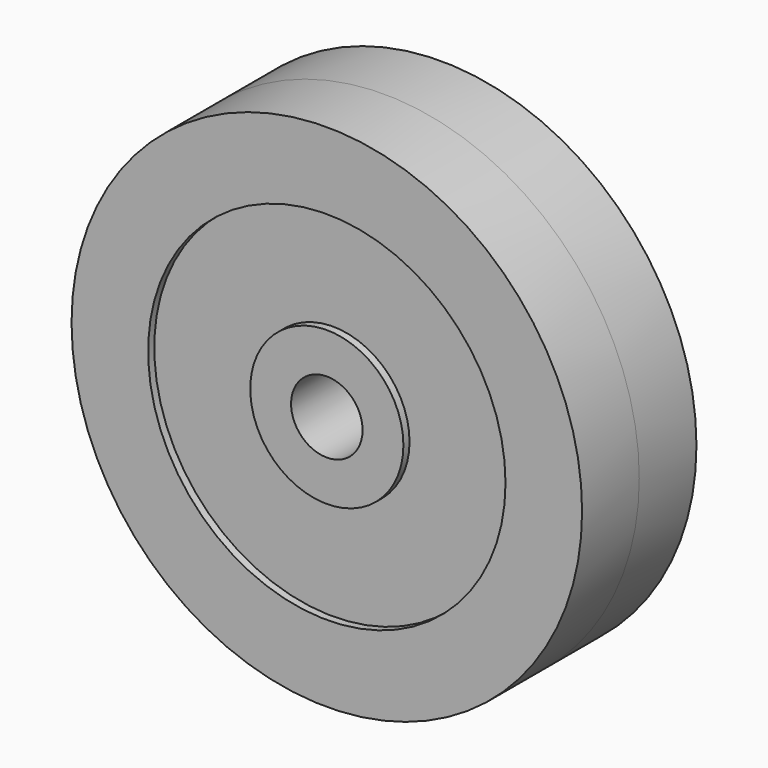
from build123d import *

# Parameters (mm, degrees)
F0_R     = 50
F0_R_2   = 35
F0_R_3   = 15
F0_R_4   = 7
F1_DEPTH = 14
F2_DEPTH = 12.5


with BuildPart() as f1:
    # F0 (on Front) → F1 (new body, symmetric)
    with BuildSketch(Plane.XZ):
        Circle(F0_R)
        Circle(F0_R_2, mode=Mode.SUBTRACT)
        Circle(F0_R_3)
        Circle(F0_R_4, mode=Mode.SUBTRACT)
    extrude(amount=F1_DEPTH, both=True)


with BuildPart() as f2:
    # F0 (on Front) → F2 (new body, symmetric)
    with BuildSketch(Plane.XZ):
        Circle(F0_R_2)
        Circle(F0_R_3, mode=Mode.SUBTRACT)
    extrude(amount=F2_DEPTH, both=True)


solid = Compound([f1.part, f2.part])
